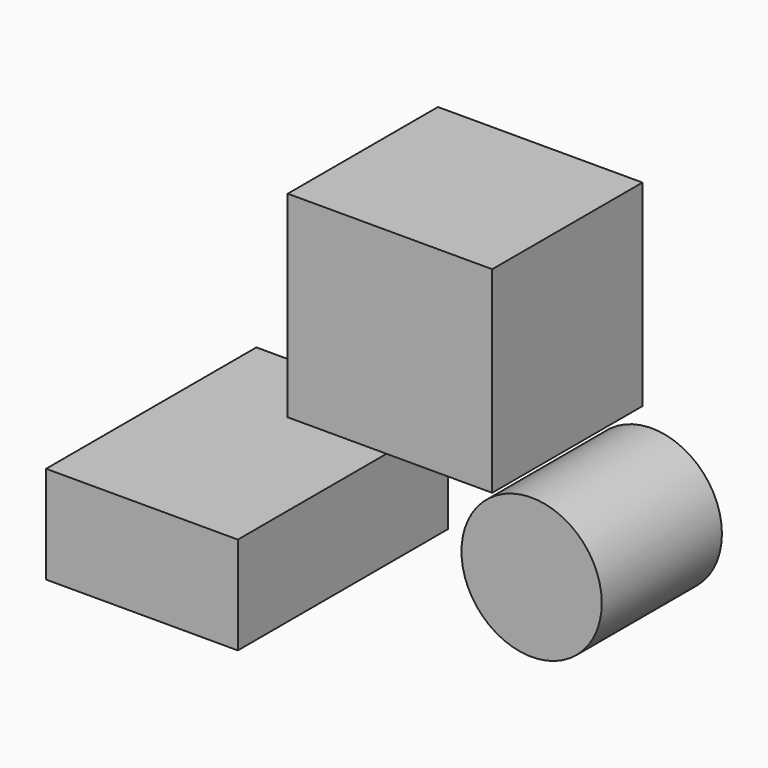
from build123d import *

# Parameters (mm, degrees)
F0_W     = 54.458399
F0_H     = 52.424678
F1_DEPTH = 50
F2_W     = 51.068871
F2_H     = 25.986372
F3_DEPTH = 70
F4_R     = 18.678996
F5_DEPTH = 40


with BuildPart() as f1:
    # F0 (on Front) → F1 (new body)
    with BuildSketch(Plane.XZ):
        with Locations((10.95947, 28.133071)):
            Rectangle(F0_W, F0_H)
    extrude(amount=F1_DEPTH)


with BuildPart() as f3:
    # F2 (on Front) → F3 (new body)
    with BuildSketch(Plane.XZ):
        with Locations((-39.092541, -30.731709)):
            Rectangle(F2_W, F2_H)
    extrude(amount=F3_DEPTH)


with BuildPart() as f5:
    # F4 (on Front) → F5 (new body)
    with BuildSketch(Plane.XZ):
        with Locations((40.674321, -21.128051)):
            Circle(F4_R)
    extrude(amount=F5_DEPTH)


solid = Compound([f1.part, f3.part, f5.part])
